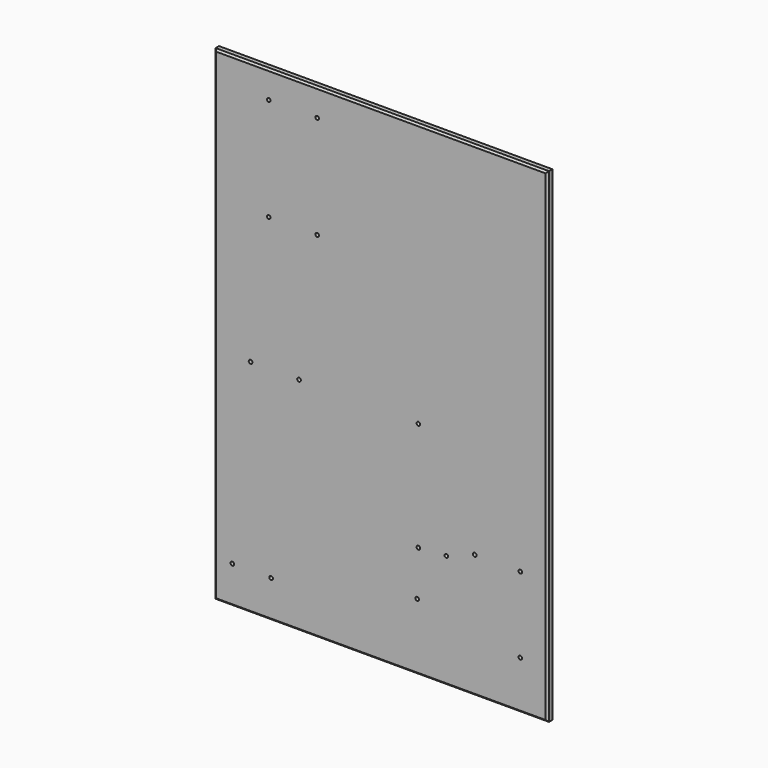
from build123d import *

# Parameters (mm, degrees)
F0_W     = 550
F0_H     = 800
F0_R     = 3
F1_DEPTH = 10
F2_SIZE  = 3


with BuildPart() as f1:
    # F0 (on Front) → F1 (new body)
    with BuildSketch(Plane.XZ):
        Rectangle(F0_W, F0_H)
        with Locations((-245, -338)):
            Circle(F0_R, mode=Mode.SUBTRACT)
        with Locations((-181, -338)):
            Circle(F0_R, mode=Mode.SUBTRACT)
        with Locations((-215, -35)):
            Circle(F0_R, mode=Mode.SUBTRACT)
        with Locations((-135, -35)):
            Circle(F0_R, mode=Mode.SUBTRACT)
        with Locations((60, -290)):
            Circle(F0_R, mode=Mode.SUBTRACT)
        with Locations((62, -215)):
            Circle(F0_R, mode=Mode.SUBTRACT)
        with Locations((108, -212)):
            Circle(F0_R, mode=Mode.SUBTRACT)
        with Locations((230, -320)):
            Circle(F0_R, mode=Mode.SUBTRACT)
        with Locations((62, -35)):
            Circle(F0_R, mode=Mode.SUBTRACT)
        with Locations((155, -195)):
            Circle(F0_R, mode=Mode.SUBTRACT)
        with Locations((230, -195)):
            Circle(F0_R, mode=Mode.SUBTRACT)
        with Locations((-185, 185)):
            Circle(F0_R, mode=Mode.SUBTRACT)
        with Locations((-105, 185)):
            Circle(F0_R, mode=Mode.SUBTRACT)
        with Locations((-185, 355)):
            Circle(F0_R, mode=Mode.SUBTRACT)
        with Locations((-105, 355)):
            Circle(F0_R, mode=Mode.SUBTRACT)
    extrude(amount=F1_DEPTH)

    # F2
    f2_edges = [f1.edges().sort_by_distance(p)[0] for p in [
        (-275, -10, 0),
        (0, -10, 400),
        (275, -10, 0),
        (0, -10, -400),
    ]]
    chamfer(f2_edges, length=F2_SIZE)


solid = f1.part
